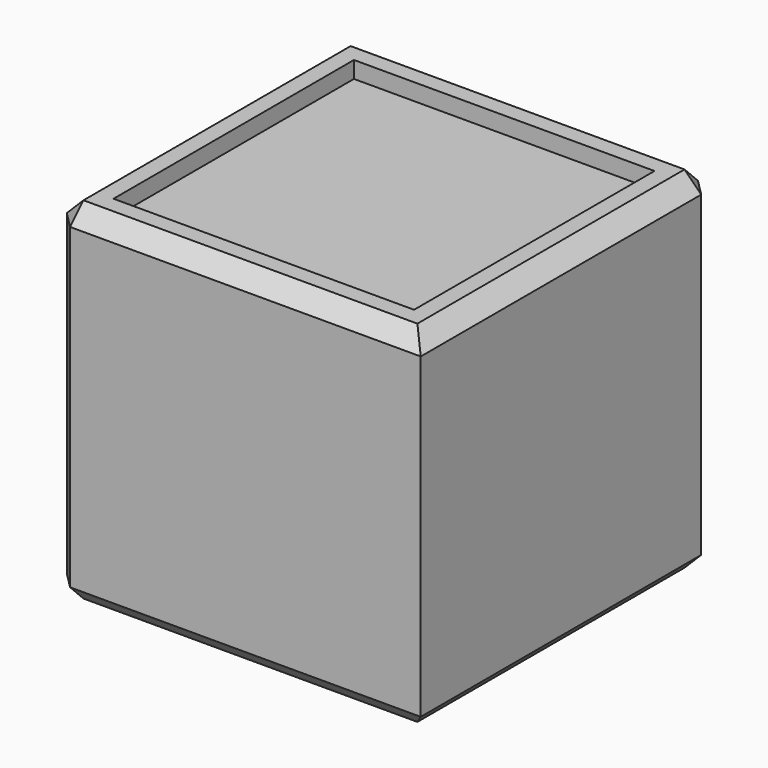
from build123d import *

# Parameters (mm, degrees)
CYLINDER007_R     = 1
CYLINDER007_DEPTH = 28
CYLINDER006_R     = 7
CYLINDER006_DEPTH = 15
BOX007_W          = 18
BOX007_H          = 18
BOX007_DEPTH      = 1
BOX006_W          = 22
BOX006_H          = 22
BOX006_DEPTH      = 21
CHAMFER001_SIZE   = 1


with BuildPart() as cylinder007:
    # Cylinder007 → Cylinder007 (new body)
    with BuildSketch(Plane(origin=(0, 0, 10), x_dir=(1, 0, 0), z_dir=(0, 1, 0))):
        Circle(CYLINDER007_R)
    extrude(amount=CYLINDER007_DEPTH)


with BuildPart() as cylinder006:
    # Cylinder006 → Cylinder006 (new body)
    with BuildSketch(Plane.XY):
        Circle(CYLINDER006_R)
    extrude(amount=CYLINDER006_DEPTH)


with BuildPart() as cube007:
    # Box007 → Box007 (new body)
    with BuildSketch(Plane(origin=(2, 2, 20), x_dir=(1, 0, 0), z_dir=(0, 0, 1))):
        with Locations((9, 9)):
            Rectangle(BOX007_W, BOX007_H)
    extrude(amount=BOX007_DEPTH)


with BuildPart() as chamfer001:
    # Box006 → Box006 (new body)
    with BuildSketch(Plane.XY):
        with Locations((11, 11)):
            Rectangle(BOX006_W, BOX006_H)
    extrude(amount=BOX006_DEPTH)

    # Cut004: cut Cube007
    add(cube007.part, mode=Mode.SUBTRACT)


with BuildPart() as chamfer001_1:
    # Cut004 placement: moved
    add(chamfer001.part.moved(Location((-11, -11, 0))))

    # Cut005: cut Cylinder006
    add(cylinder006.part, mode=Mode.SUBTRACT)

    # Cut006: cut Cylinder007
    add(cylinder007.part, mode=Mode.SUBTRACT)

    # Chamfer001
    chamfer001_edges = [chamfer001_1.edges().sort_by_distance(p)[0] for p in [
        (-11, -11, 10.5),
        (-11, 0, 21),
        (-11, 11, 10.5),
        (-11, 0, 0),
        (0, -11, 0),
        (0, -11, 21),
        (0, 11, 21),
        (11, 0, 21),
        (0, 11, 0),
        (11, 11, 10.5),
        (11, 0, 0),
        (-7, 0, 0),
    ]]
    chamfer(chamfer001_edges, length=CHAMFER001_SIZE)


solid = chamfer001_1.part
